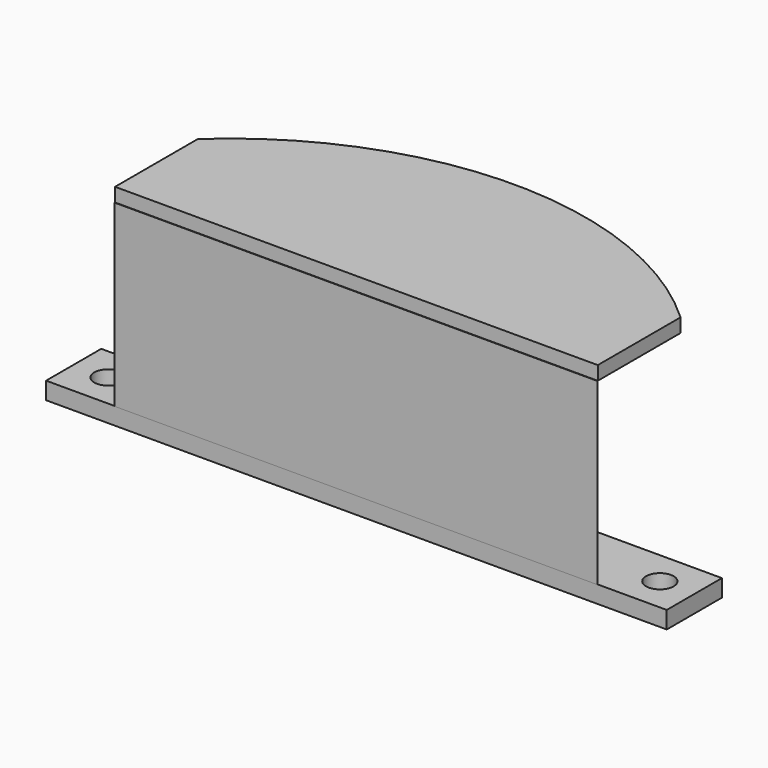
from build123d import *

# Parameters (mm, degrees)
SKETCH_W     = 90
SKETCH_H     = 10
SKETCH_R     = 2
PAD_DEPTH    = 2.5
PAD001_DEPTH = 26
PAD002_DEPTH = 2


with BuildPart() as part:
    # Sketch → Pad (new body)
    with BuildSketch(Plane.XY):
        Rectangle(SKETCH_W, SKETCH_H)
        with Locations((-40, 0)):
            Circle(SKETCH_R, mode=Mode.SUBTRACT)
        with Locations((40, 0)):
            Circle(SKETCH_R, mode=Mode.SUBTRACT)
    extrude(amount=PAD_DEPTH)

    # Sketch001 → Pad001 (new body)
    with BuildSketch(Plane.XY.offset(2.5)):
        with BuildLine():
            ThreePointArc((35, -5.068991), (0, 4.896818), (-35, -5.068991))
            Line((-35, -5.068991), (35, -5.068991))
        make_face()
    extrude(amount=PAD001_DEPTH)

    # Sketch002 → Pad002 (new body)
    with BuildSketch(Plane.XY.offset(28.5)):
        with BuildLine():
            ThreePointArc((35, 10), (0, 23.686319), (-35, 10))
            Line((-35, -5), (-35, 10))
            Line((-35, -5), (35, -5))
            Line((35, 10), (35, -5))
        make_face()
    extrude(amount=PAD002_DEPTH)


solid = part.part
